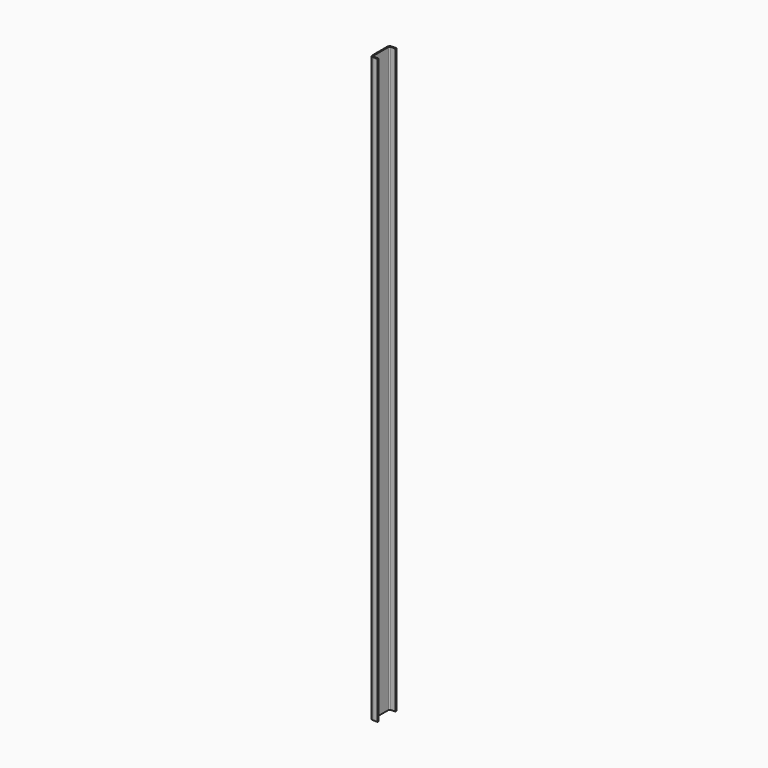
from build123d import *

# Parameters (mm, degrees)
F1_DEPTH = 747


with BuildPart() as f1:
    # F0 (on Top) → F1 (new body)
    with BuildSketch(Plane.XY):
        with BuildLine():
            Line((0, 12), (0, 0))
            Line((0, 0), (0, -12))
            ThreePointArc((0, -12), (0.87868, -14.12132), (3, -15))
            Line((3, -15), (9, -15))
            Line((9, -15), (9, -13.5))
            Line((9, -13.5), (3, -13.5))
            ThreePointArc((3, -13.5), (1.93934, -13.06066), (1.5, -12))
            Line((1.5, -12), (1.5, 0))
            Line((1.5, 0), (1.5, 12))
            ThreePointArc((1.5, 12), (1.93934, 13.06066), (3, 13.5))
            Line((3, 13.5), (9, 13.5))
            Line((9, 13.5), (9, 15))
            Line((9, 15), (3, 15))
            ThreePointArc((3, 15), (0.87868, 14.12132), (0, 12))
        make_face()
    extrude(amount=F1_DEPTH)


solid = f1.part
